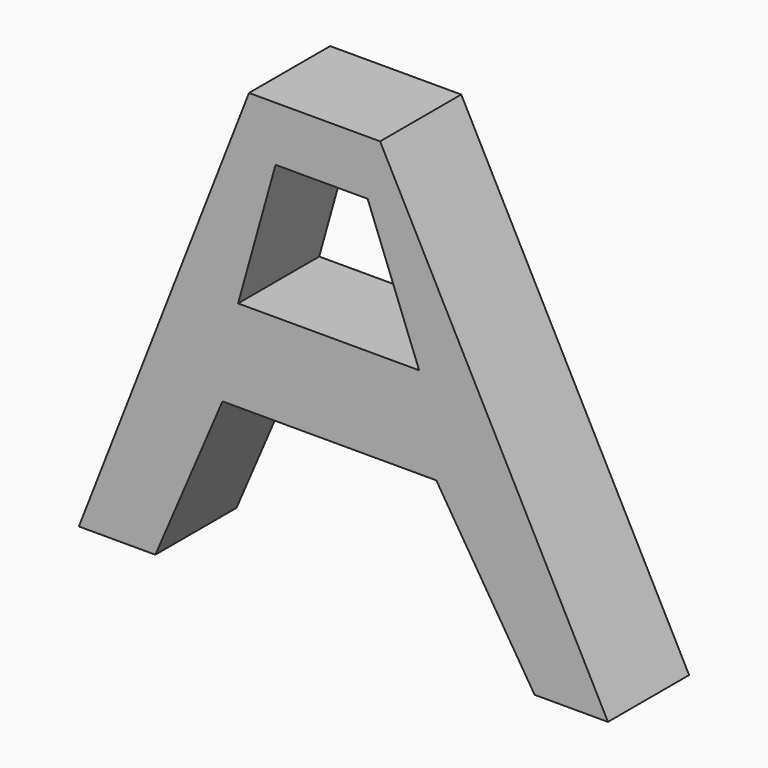
from build123d import *

# Parameters (mm, degrees)
F1_DEPTH = 12.7


with BuildPart() as f1:
    # F0 (on Front) → F1 (new body)
    with BuildSketch(Plane.XZ):
        Polygon((7.913076, 35.071541), (-8.49923, 35.071541), (-29.796153, -19.636154), (-20.222308, -19.636154), (-11.82077, 0), (14.946923, 0), (27.256155, -19.636154), (36.439233, -19.636154), align=None)
        Polygon((-9.866923, 11.430001), (-5.177692, 28.233077), (6.35, 28.233077), (12.797694, 11.430001), align=None, mode=Mode.SUBTRACT)
    extrude(amount=F1_DEPTH)


solid = f1.part
